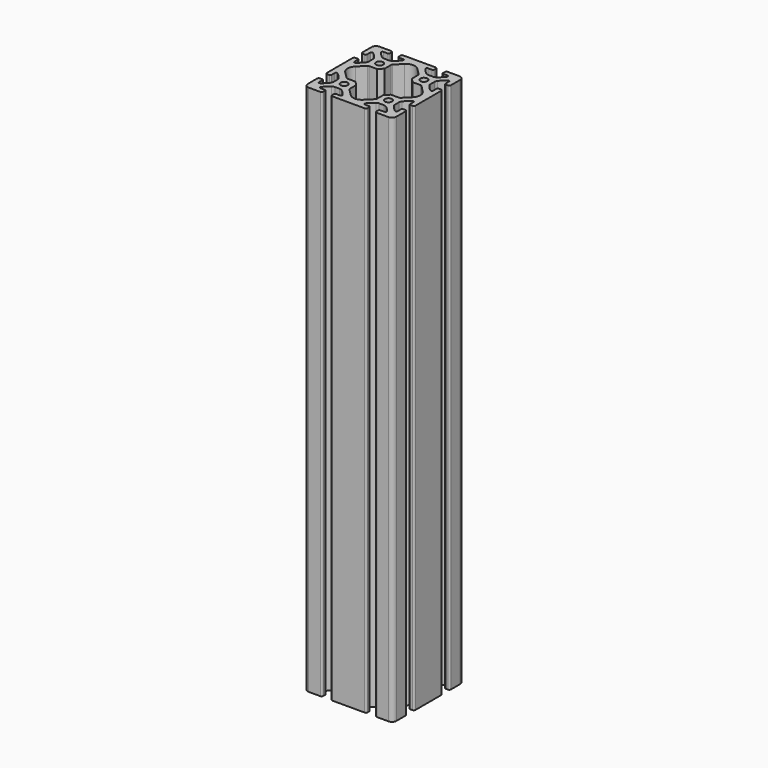
from build123d import *

# Parameters (mm, degrees)
IMPORT_R               = 3.2
PAD_DEPTH              = 240
SKETCH001_R            = 2
HOLE_DEPTH             = 67.751
LINEARPATTERN_COUNT    = 3
LINEARPATTERN_PITCH    = 150
SKETCH002_R            = 2
HOLE001_DEPTH          = 67.751
LINEARPATTERN001_COUNT = 3
LINEARPATTERN001_PITCH = 150


with BuildPart() as part:
    # Import → Pad (new body, symmetric)
    with BuildSketch(Plane(origin=(-40, -40, 0), x_dir=(0, 1, 0), z_dir=(0, 0, 1))):
        with BuildLine():
            ThreePointArc((17.806944, -27.75), (16.549585, -27.952758), (15.419695, -28.540476))
            ThreePointArc((15.419695, -28.540476), (12.621206, -30.963551), (10.211193, -33.773297))
            ThreePointArc((10.211193, -33.773297), (10.116531, -34.905025), (11.083885, -35.5))
            Line((11.083885, -35.5), (15, -35.5))
            ThreePointArc((15, -35.5), (15.707107, -35.792893), (16, -36.5))
            Line((16, -36.5), (16, -38.5))
            ThreePointArc((16, -38.5), (15.56066, -39.56066), (14.5, -40))
            Line((14.5, -40), (-14.5, -40))
            ThreePointArc((-14.5, -40), (-15.56066, -39.56066), (-16, -38.5))
            Line((-16, -38.5), (-16, -36.5))
            ThreePointArc((-16, -36.5), (-15.707107, -35.792893), (-15, -35.5))
            Line((-15, -35.5), (-11.083885, -35.5))
            ThreePointArc((-11.083885, -35.5), (-10.116531, -34.905025), (-10.211192, -33.773297))
            ThreePointArc((-10.211192, -33.773297), (-12.621206, -30.963551), (-15.419695, -28.540476))
            ThreePointArc((-15.419695, -28.540476), (-16.549584, -27.952758), (-17.806942, -27.75))
            Line((-17.806942, -27.75), (-22.193058, -27.75))
            ThreePointArc((-22.193058, -27.75), (-23.450416, -27.952758), (-24.580305, -28.540476))
            ThreePointArc((-24.580305, -28.540476), (-27.378794, -30.963551), (-29.788807, -33.773297))
            ThreePointArc((-29.788807, -33.773297), (-29.883469, -34.905025), (-28.916115, -35.5))
            Line((-28.916115, -35.5), (-25, -35.5))
            ThreePointArc((-25, -35.5), (-24.292893, -35.792893), (-24, -36.5))
            Line((-24, -36.5), (-24, -38.5))
            ThreePointArc((-24, -38.5), (-24.43934, -39.56066), (-25.5, -40))
            Line((-25.5, -40), (-36, -40))
            ThreePointArc((-36, -40), (-38.828427, -38.828427), (-40, -36))
            Line((-40, -36), (-40, -25.5))
            ThreePointArc((-40, -25.5), (-39.56066, -24.43934), (-38.5, -24))
            Line((-38.5, -24), (-36.5, -24))
            ThreePointArc((-36.5, -24), (-35.792893, -24.292893), (-35.5, -25))
            Line((-35.5, -25), (-35.5, -28.916115))
            ThreePointArc((-35.5, -28.916115), (-35.182538, -29.682538), (-34.416115, -30.000001))
            ThreePointArc((-34.416115, -30.000001), (-34.077804, -29.94585), (-33.773297, -29.788808))
            ThreePointArc((-33.773297, -29.788808), (-30.963551, -27.378795), (-28.540476, -24.580306))
            ThreePointArc((-28.540476, -24.580306), (-27.952758, -23.450416), (-27.75, -22.193056))
            Line((-27.75, -22.193056), (-27.75, -17.806944))
            ThreePointArc((-27.75, -17.806944), (-27.952758, -16.549585), (-28.540476, -15.419695))
            ThreePointArc((-28.540476, -15.419695), (-30.963551, -12.621206), (-33.773297, -10.211193))
            ThreePointArc((-33.773297, -10.211193), (-34.905025, -10.116531), (-35.5, -11.083885))
            Line((-35.5, -11.083885), (-35.5, -15))
            ThreePointArc((-35.5, -15), (-35.792893, -15.707107), (-36.5, -16))
            Line((-36.5, -16), (-38.5, -16))
            ThreePointArc((-38.5, -16), (-39.56066, -15.56066), (-40, -14.5))
            Line((-40, -14.5), (-40, 14.5))
            ThreePointArc((-40, 14.5), (-39.56066, 15.56066), (-38.5, 16))
            Line((-38.5, 16), (-36.5, 16))
            ThreePointArc((-36.5, 16), (-35.792893, 15.707107), (-35.5, 15))
            Line((-35.5, 15), (-35.5, 11.083885))
            ThreePointArc((-35.5, 11.083885), (-35.182538, 10.317462), (-34.416115, 9.999999))
            ThreePointArc((-34.416115, 9.999999), (-34.077804, 10.05415), (-33.773297, 10.211192))
            ThreePointArc((-33.773297, 10.211192), (-30.963551, 12.621205), (-28.540476, 15.419694))
            ThreePointArc((-28.540476, 15.419694), (-27.952758, 16.549583), (-27.75, 17.806942))
            Line((-27.75, 17.806942), (-27.75, 22.193058))
            ThreePointArc((-27.75, 22.193058), (-27.952758, 23.450416), (-28.540476, 24.580305))
            ThreePointArc((-28.540476, 24.580305), (-30.963551, 27.378794), (-33.773297, 29.788807))
            ThreePointArc((-33.773297, 29.788807), (-34.905025, 29.883469), (-35.5, 28.916115))
            Line((-35.5, 28.916115), (-35.5, 25))
            ThreePointArc((-35.5, 25), (-35.792893, 24.292893), (-36.5, 24))
            Line((-36.5, 24), (-38.5, 24))
            ThreePointArc((-38.5, 24), (-39.56066, 24.43934), (-40, 25.5))
            Line((-40, 25.5), (-40, 36))
            ThreePointArc((-40, 36), (-38.828427, 38.828427), (-36, 40))
            Line((-36, 40), (-25.5, 40))
            ThreePointArc((-25.5, 40), (-24.43934, 39.56066), (-24, 38.5))
            Line((-24, 38.5), (-24, 36.5))
            ThreePointArc((-24, 36.5), (-24.292893, 35.792893), (-25, 35.5))
            Line((-25, 35.5), (-28.916115, 35.5))
            ThreePointArc((-28.916115, 35.5), (-29.88347, 34.905025), (-29.788808, 33.773297))
            ThreePointArc((-29.788808, 33.773297), (-27.378795, 30.963551), (-24.580306, 28.540476))
            ThreePointArc((-24.580306, 28.540476), (-23.450417, 27.952758), (-22.193058, 27.75))
            Line((-22.193058, 27.75), (-17.806942, 27.75))
            ThreePointArc((-17.806942, 27.75), (-16.549584, 27.952758), (-15.419695, 28.540476))
            ThreePointArc((-15.419695, 28.540476), (-12.621205, 30.963551), (-10.211192, 33.773297))
            ThreePointArc((-10.211192, 33.773297), (-10.116531, 34.905025), (-11.083885, 35.5))
            Line((-11.083885, 35.5), (-15, 35.5))
            ThreePointArc((-15, 35.5), (-15.707107, 35.792893), (-16, 36.5))
            Line((-16, 36.5), (-16, 38.5))
            ThreePointArc((-16, 38.5), (-15.56066, 39.56066), (-14.5, 40))
            Line((-14.5, 40), (14.5, 40))
            ThreePointArc((14.5, 40), (15.56066, 39.56066), (16, 38.5))
            Line((16, 38.5), (16, 36.5))
            ThreePointArc((16, 36.5), (15.707107, 35.792893), (15, 35.5))
            Line((15, 35.5), (11.083885, 35.5))
            ThreePointArc((11.083885, 35.5), (10.11653, 34.905025), (10.211192, 33.773297))
            ThreePointArc((10.211192, 33.773297), (12.621205, 30.963551), (15.419694, 28.540476))
            ThreePointArc((15.419694, 28.540476), (16.549584, 27.952758), (17.806944, 27.75))
            Line((17.806944, 27.75), (22.193056, 27.75))
            ThreePointArc((22.193056, 27.75), (23.450415, 27.952758), (24.580305, 28.540476))
            ThreePointArc((24.580305, 28.540476), (27.378795, 30.963551), (29.788808, 33.773297))
            ThreePointArc((29.788808, 33.773297), (29.883469, 34.905025), (28.916115, 35.5))
            Line((28.916115, 35.5), (25, 35.5))
            ThreePointArc((25, 35.5), (24.292893, 35.792893), (24, 36.5))
            Line((24, 36.5), (24, 38.5))
            ThreePointArc((24, 38.5), (24.43934, 39.56066), (25.5, 40))
            Line((25.5, 40), (36, 40))
            ThreePointArc((36, 40), (38.828427, 38.828427), (40, 36))
            Line((40, 36), (40, 25.5))
            ThreePointArc((40, 25.5), (39.56066, 24.43934), (38.5, 24))
            Line((38.5, 24), (36.5, 24))
            ThreePointArc((36.5, 24), (35.792893, 24.292893), (35.5, 25))
            Line((35.5, 25), (35.5, 28.916115))
            ThreePointArc((35.5, 28.916115), (34.905025, 29.883469), (33.773297, 29.788808))
            ThreePointArc((33.773297, 29.788808), (30.963551, 27.378794), (28.540476, 24.580305))
            ThreePointArc((28.540476, 24.580305), (27.952758, 23.450416), (27.75, 22.193058))
            Line((27.75, 22.193058), (27.75, 17.806942))
            ThreePointArc((27.75, 17.806942), (27.952758, 16.549584), (28.540476, 15.419695))
            ThreePointArc((28.540476, 15.419695), (30.963551, 12.621205), (33.773297, 10.211192))
            ThreePointArc((33.773297, 10.211192), (34.077804, 10.054151), (34.416115, 10))
            ThreePointArc((34.416115, 10), (35.182538, 10.317462), (35.5, 11.083885))
            Line((35.5, 11.083885), (35.5, 15))
            ThreePointArc((35.5, 15), (35.792893, 15.707107), (36.5, 16))
            Line((36.5, 16), (38.5, 16))
            ThreePointArc((38.5, 16), (39.56066, 15.56066), (40, 14.5))
            Line((40, 14.5), (40, -14.5))
            ThreePointArc((40, -14.5), (39.56066, -15.56066), (38.5, -16))
            Line((38.5, -16), (36.5, -16))
            ThreePointArc((36.5, -16), (35.792893, -15.707107), (35.5, -15))
            Line((35.5, -15), (35.5, -11.083885))
            ThreePointArc((35.5, -11.083885), (34.905025, -10.116531), (33.773297, -10.211192))
            ThreePointArc((33.773297, -10.211192), (30.963551, -12.621206), (28.540476, -15.419695))
            ThreePointArc((28.540476, -15.419695), (27.952758, -16.549585), (27.75, -17.806944))
            Line((27.75, -17.806944), (27.75, -22.193056))
            ThreePointArc((27.75, -22.193056), (27.952758, -23.450415), (28.540476, -24.580305))
            ThreePointArc((28.540476, -24.580305), (30.963551, -27.378795), (33.773297, -29.788808))
            ThreePointArc((33.773297, -29.788808), (34.077804, -29.945849), (34.416115, -30))
            ThreePointArc((34.416115, -30), (35.182538, -29.682538), (35.5, -28.916115))
            Line((35.5, -28.916115), (35.5, -25))
            ThreePointArc((35.5, -25), (35.792893, -24.292893), (36.5, -24))
            Line((36.5, -24), (38.5, -24))
            ThreePointArc((38.5, -24), (39.56066, -24.43934), (40, -25.5))
            Line((40, -25.5), (40, -36))
            ThreePointArc((40, -36), (38.828427, -38.828427), (36, -40))
            Line((36, -40), (25.5, -40))
            ThreePointArc((25.5, -40), (24.43934, -39.56066), (24, -38.5))
            Line((24, -38.5), (24, -36.5))
            ThreePointArc((24, -36.5), (24.292893, -35.792893), (25, -35.5))
            Line((25, -35.5), (28.916115, -35.5))
            ThreePointArc((28.916115, -35.5), (29.883469, -34.905025), (29.788808, -33.773297))
            ThreePointArc((29.788808, -33.773297), (27.378794, -30.963551), (24.580305, -28.540476))
            ThreePointArc((24.580305, -28.540476), (23.450415, -27.952758), (22.193056, -27.75))
            Line((22.193056, -27.75), (17.806944, -27.75))
        make_face()
        with BuildLine():
            Line((5.656854, -30.46076), (11.810659, -24.306953))
            ThreePointArc((11.810659, -24.306953), (12.135819, -23.820318), (12.25, -23.246292))
            Line((12.25, -23.246292), (12.25, -16.034271))
            Line((12.25, -16.034271), (16.034271, -12.25))
            Line((16.034271, -12.25), (23.246292, -12.25))
            ThreePointArc((23.246292, -12.25), (23.820318, -12.135819), (24.306953, -11.810659))
            Line((24.306953, -11.810659), (30.460759, -5.656853))
            ThreePointArc((30.460759, -5.656853), (32.803903, -1e-06), (30.460759, 5.65685))
            Line((30.460759, 5.65685), (24.306953, 11.810656))
            ThreePointArc((24.306953, 11.810656), (23.820318, 12.135816), (23.246292, 12.249996))
            Line((23.246292, 12.249996), (16.034271, 12.249996))
            Line((16.034271, 12.249996), (12.25, 16.034271))
            Line((12.25, 16.034271), (12.25, 23.246292))
            ThreePointArc((12.25, 23.246292), (12.135819, 23.820318), (11.810659, 24.306953))
            Line((11.810659, 24.306953), (5.656853, 30.460759))
            ThreePointArc((5.656853, 30.460759), (0, 32.803904), (-5.656853, 30.460757))
            Line((-5.656853, 30.460757), (-11.810661, 24.306953))
            ThreePointArc((-11.810661, 24.306953), (-12.13582, 23.820318), (-12.25, 23.246292))
            Line((-12.25, 23.246292), (-12.25, 16.034271))
            Line((-12.25, 16.034271), (-16.034271, 12.250004))
            Line((-16.034271, 12.250004), (-23.246292, 12.250004))
            ThreePointArc((-23.246292, 12.250004), (-23.82032, 12.135822), (-24.306958, 11.810661))
            Line((-24.306958, 11.810661), (-30.460762, 5.656853))
            ThreePointArc((-30.460762, 5.656853), (-32.803908, 0), (-30.460762, -5.656853))
            Line((-30.460762, -5.656853), (-24.306956, -11.810659))
            ThreePointArc((-24.306956, -11.810659), (-23.82032, -12.13582), (-23.246292, -12.250002))
            Line((-23.246292, -12.250002), (-16.034271, -12.250002))
            Line((-16.034271, -12.250002), (-12.25, -16.034271))
            Line((-12.25, -16.034271), (-12.25, -23.246292))
            ThreePointArc((-12.25, -23.246292), (-12.13582, -23.820317), (-11.810661, -24.306953))
            Line((-11.810661, -24.306953), (-5.656855, -30.460759))
            ThreePointArc((-5.656855, -30.460759), (-3.061468, -32.194943), (0, -32.803907))
            ThreePointArc((0, -32.803907), (3.061468, -32.194943), (5.656854, -30.46076))
        make_face(mode=Mode.SUBTRACT)
        with Locations((-20, 20)):
            Circle(IMPORT_R, mode=Mode.SUBTRACT)
        with Locations((-20, -20)):
            Circle(IMPORT_R, mode=Mode.SUBTRACT)
        with Locations((20, 19.945015)):
            Circle(IMPORT_R, mode=Mode.SUBTRACT)
        with Locations((20, -20)):
            Circle(IMPORT_R, mode=Mode.SUBTRACT)
    extrude(amount=PAD_DEPTH, both=True)

    # Sketch001 (on Face16 of Pad) → Hole (cut, through all)
    with BuildSketch(Plane.YZ.offset(-12.25)):
        with Locations((-60, -150)):
            Circle(SKETCH001_R)
    hole = extrude(amount=-HOLE_DEPTH, mode=Mode.SUBTRACT)

    # LinearPattern: Hole ×3
    with Locations(*[(0, 0, i * LINEARPATTERN_PITCH) for i in range(1, LINEARPATTERN_COUNT)]):
        add(hole, mode=Mode.SUBTRACT)

    # Sketch002 (on Face2 of Hole) → Hole001 (cut, through all)
    with BuildSketch(Plane.YZ.offset(-12.25)):
        with Locations((-20, -150)):
            Circle(SKETCH002_R)
    hole001 = extrude(amount=-HOLE001_DEPTH, mode=Mode.SUBTRACT)

    # LinearPattern001: Hole001 ×3
    with Locations(*[(0, 0, i * LINEARPATTERN001_PITCH) for i in range(1, LINEARPATTERN001_COUNT)]):
        add(hole001, mode=Mode.SUBTRACT)


solid = part.part
